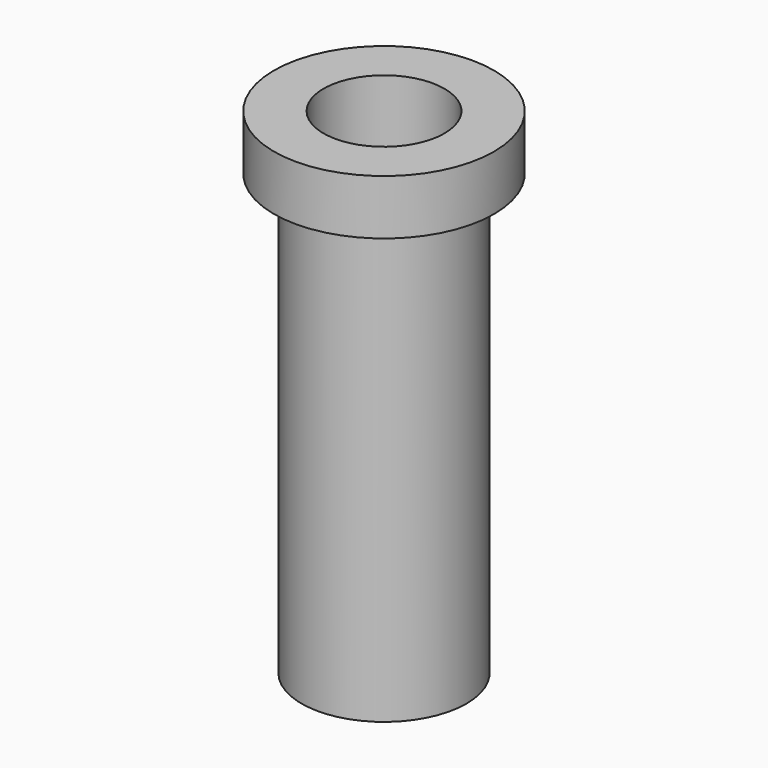
from build123d import *

# Parameters (mm, degrees)
SKETCH_R      = 7.5
SKETCH_R_2    = 5.5
PAD_DEPTH     = 45
SKETCH001_R   = 10
SKETCH001_R_2 = 5.5
PAD001_DEPTH  = 5


with BuildPart() as part:
    # Sketch → Pad (new body)
    with BuildSketch(Plane.XY):
        Circle(SKETCH_R)
        Circle(SKETCH_R_2, mode=Mode.SUBTRACT)
    extrude(amount=PAD_DEPTH)

    # Sketch001 → Pad001 (new body)
    with BuildSketch(Plane.XY.offset(45)):
        Circle(SKETCH001_R)
        Circle(SKETCH001_R_2, mode=Mode.SUBTRACT)
    extrude(amount=-PAD001_DEPTH)


solid = part.part
